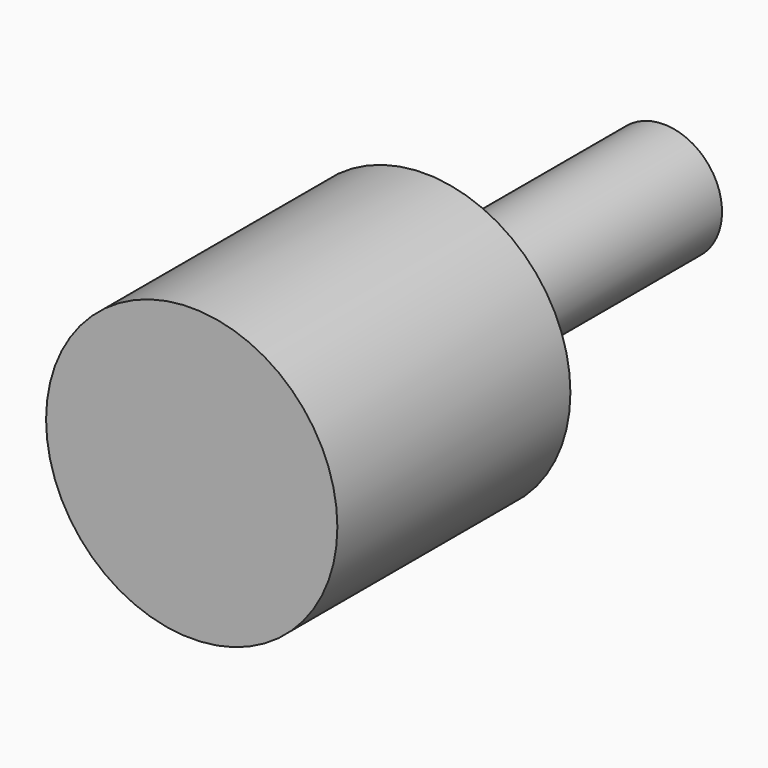
from build123d import *

# Parameters (mm, degrees)
F0_R     = 63.5
F1_DEPTH = 127
F2_R     = 25.4
F2_R_2   = 24.093414
F3_DEPTH = 127


with BuildPart() as f1:
    # F0 (on Front) → F1 (new body)
    with BuildSketch(Plane.XZ):
        with Locations((-63.626207, 65.614522)):
            Circle(F0_R)
    extrude(amount=F1_DEPTH)

    # F2 (on face) → F3 (join)
    with BuildSketch(Plane(origin=(0, 0, 0), x_dir=(-1, 0, 0), z_dir=(0, 1, 0))):
        with Locations((61.020497, 71.783684)):
            Circle(F2_R)
        with Locations((61.020497, 71.783684)):
            Circle(F2_R_2, mode=Mode.SUBTRACT)
    extrude(amount=F3_DEPTH)


solid = f1.part
